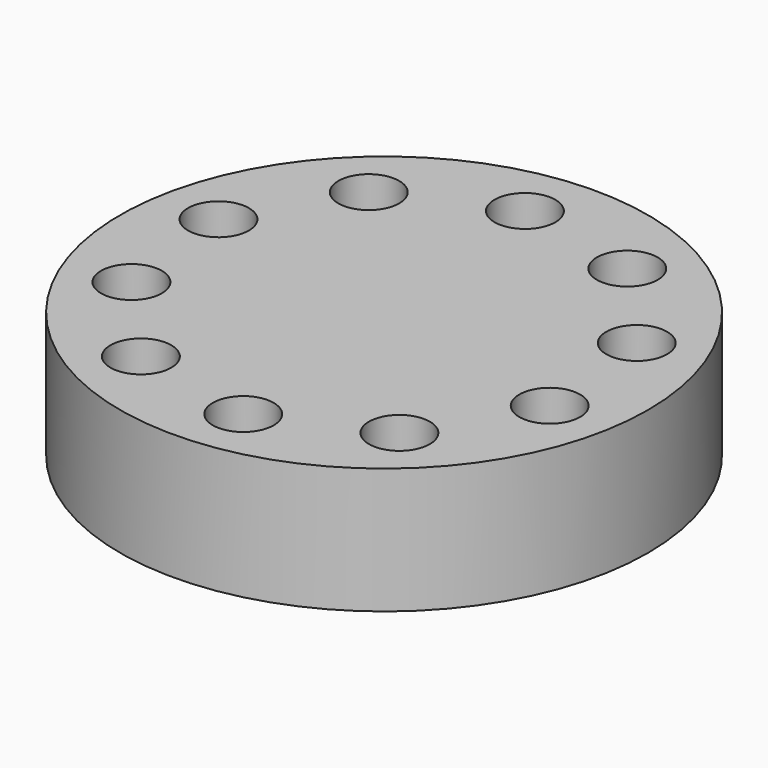
from build123d import *

# Parameters (mm, degrees)
F0_R     = 53.2936931822
F0_R_2   = 6.1448817816
F1_DEPTH = 12.7


with BuildPart() as f1:
    # F0 (on Top) → F1 (new body, symmetric)
    with BuildSketch(Plane.XY):
        Circle(F0_R)
        with Locations((-20.5712730928, -35.6639767333)):
            Circle(F0_R_2, mode=Mode.SUBTRACT)
        with Locations((-37.6052690899, -16.7612723194)):
            Circle(F0_R_2, mode=Mode.SUBTRACT)
        with Locations((4.3202500339, -40.944254209)):
            Circle(F0_R_2, mode=Mode.SUBTRACT)
        with Locations((27.5615844876, -30.5852182209)):
            Circle(F0_R_2, mode=Mode.SUBTRACT)
        with Locations((40.2753304508, -8.5436684258)):
            Circle(F0_R_2, mode=Mode.SUBTRACT)
        with Locations((-40.2753304508, 8.5436684258)):
            Circle(F0_R_2, mode=Mode.SUBTRACT)
        with Locations((-27.5615844876, 30.5852182209)):
            Circle(F0_R_2, mode=Mode.SUBTRACT)
        with Locations((-4.3202500339, 40.944254209)):
            Circle(F0_R_2, mode=Mode.SUBTRACT)
        with Locations((37.6052690899, 16.7612723194)):
            Circle(F0_R_2, mode=Mode.SUBTRACT)
        with Locations((20.5712730928, 35.6639767333)):
            Circle(F0_R_2, mode=Mode.SUBTRACT)
    extrude(amount=F1_DEPTH, both=True)


solid = f1.part
